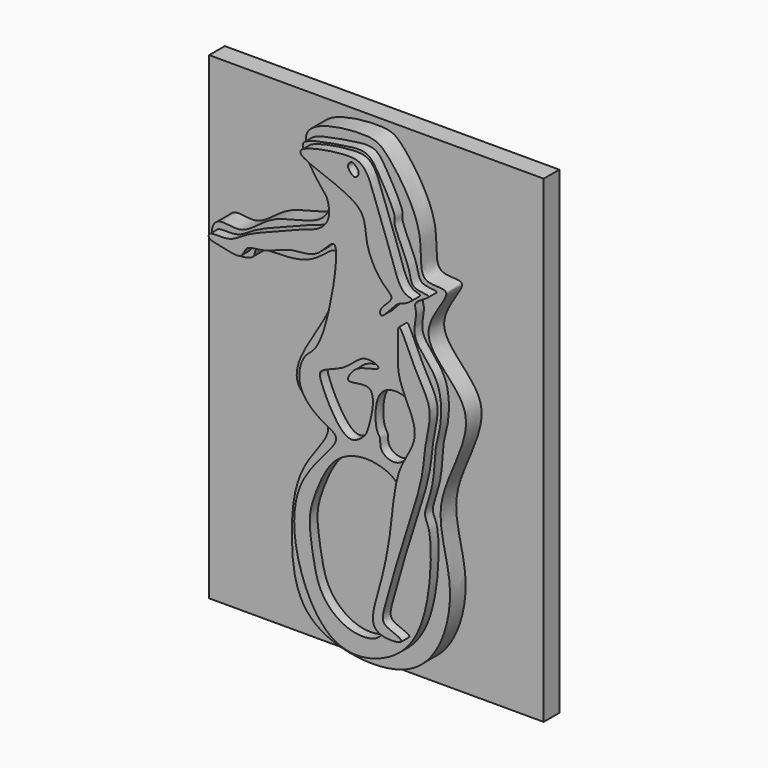
from build123d import *

# Parameters (mm, degrees)
F0_W     = 43.457640335
F0_H     = 62.1308442205
F1_DEPTH = 2.54
F3_DEPTH = 2.54
F5_DEPTH = 1.27
F7_DEPTH = 1.27


with BuildPart() as f1:
    # F0 (on Front) → F1 (new body)
    with BuildSketch(Plane.XZ):
        with Locations((-0.8170800284, 14.6381715313)):
            Rectangle(F0_W, F0_H)
    extrude(amount=-F1_DEPTH)

    # F2 (on face) → F3 (join)
    with BuildSketch(Plane.XZ):
        with BuildLine():
            add(Edge.make_bspline(
                [(0, 44.8016449809), (-2.0234491161, 44.9530078931), (-8.435147304, 44.2185218635), (-7.8807655018, 39.962765512), (-4.2649202858, 36.9444405799), (-5.3624723918, 32.4578236316), (-12.5365644835, 32.186671414), (-16.0079976728, 27.8613503581), (-19.696611489, 29.5765748346), (-20.9440920945, 25.6851641245), (-14.127248545, 25.4066612266), (-15.0712183051, 28.1888386641), (-7.4614569559, 26.6842009068), (-3.2438366293, 32.5457270387), (-3.9290610175, 24.083803927), (-7.2956947474, 19.5613075717), (-10.7571260537, 12.762866108), (-2.751395367, 10.4749042524), (-9.3209790943, 4.4718546339), (-9.9996930084, -3.8204161669), (-9.354181094, -10.7124391217), (-5.1667355477, -15.2539676182), (8.1328352337, -16.3185915256), (12.2422820391, -2.9997955357), (7.4164966592, 5.8811042994), (16.4125980164, 17.9394080175), (4.772515125, 23.9317503054), (12.3737787811, 31.2463774086), (6.2428860121, 29.9008066672), (7.9344650366, 36.4282144115), (2.6646372177, 43.8195999359), (1.2501706057, 44.7081267095), (0, 44.8016449809)],
                knots=[0, 0, 0, 0, 0.0383759243, 0.0623298158, 0.0919301384, 0.1172545377, 0.153120632, 0.1845863062, 0.2088195886, 0.2291013471, 0.2602373093, 0.2760502939, 0.3118697092, 0.3411659157, 0.3731232614, 0.4098700779, 0.4436209076, 0.4747730427, 0.5098693481, 0.5510628112, 0.5869373693, 0.620066446, 0.6666308944, 0.7137181878, 0.7572919571, 0.8050963348, 0.8467326401, 0.8804936293, 0.903198064, 0.9349620834, 0.9762897658, 1, 1, 1, 1], degree=3))
        make_face()
    extrude(amount=F3_DEPTH)

    # F4 (on face) → F5 (join)
    with BuildSketch(Plane.XZ.offset(2.54)):
        with BuildLine():
            add(Edge.make_bspline(
                [(-3.0024009757, 9.7199194133), (-3.0170955966, 8.5787493555), (-9.6614622337, 3.4705459383), (-7.9737765132, -8.4057598686), (-2.6553886225, -15.3781533259), (5.8279038938, -12.9575285379), (9.2837823193, -6.0963381898), (9.5120668979, 3.3190707199), (8.1330208214, 4.7737262245), (9.8341730268, 8.3834425816), (9.7562258646, 13.0157583339), (10.5848466443, 14.8858401458), (11.01261471, 21.0446032113), (6.3968094168, 24.2378050253), (7.7106940585, 27.5660860698), (6.8032649527, 28.7403184579), (10.2429241226, 30.1859740233), (6.6486938317, 29.9269183277), (6.7703351805, 32.3067484561), (4.2660644658, 36.7281631703), (4.8349967456, 37.5569622914), (3.486880688, 40.1886238755), (2.4091259111, 41.9972952325), (1.126472292, 44.0947422381), (-2.3362161064, 43.5419054265), (-7.4068895642, 42.6979590327), (-7.3953137697, 41.2856711626), (-4.8651108859, 37.6029254885), (-4.1224781101, 37.0659706714), (-3.6229074584, 34.4837884557), (-5.2380391631, 32.8725253834), (-7.1356136187, 32.3904205805), (-10.3517715798, 31.031464356), (-14.459193652, 29.5605192486), (-16.2016015305, 28.1946028092), (-17.6635544345, 27.8880997683), (-19.5632346815, 28.0843684096), (-19.6200914979, 27.0963813147), (-17.9023009458, 26.9318071319), (-15.0967912551, 26.0840329148), (-14.8579688231, 28.1332846649), (-12.3181051652, 27.9058593538), (-8.8480549939, 29.8449961324), (-5.4638176864, 29.3130170298), (-2.0500550467, 34.5357960631), (-4.056654761, 21.9802440452), (-5.8155797044, 18.784276183), (-7.4592347174, 17.8000767835), (-8.3637722939, 13.8820230634), (-4.9904533778, 11.0006159423), (-2.9945986043, 10.3258440317), (-3.0024009757, 9.7199194133)],
                knots=[0, 0, 0, 0, 0.0318589059, 0.0709012117, 0.1025280922, 0.1329467856, 0.1648970997, 0.1989650948, 0.2135506187, 0.235402343, 0.2598737674, 0.2766195288, 0.3036433485, 0.3292711791, 0.3487285862, 0.3605659428, 0.3770110132, 0.392160199, 0.4090504193, 0.4342475777, 0.4448352128, 0.4635815735, 0.481121029, 0.4973379045, 0.5186792447, 0.5437535406, 0.5550179246, 0.5788392186, 0.5906765576, 0.6078692675, 0.6242755818, 0.6400393279, 0.6616214849, 0.6857918046, 0.7024160409, 0.7165802637, 0.7313520206, 0.7393171443, 0.7539026757, 0.7722727656, 0.7853510559, 0.8020968181, 0.8248173926, 0.846081297, 0.8651702095, 0.9002001181, 0.9236210632, 0.938218438, 0.9593118283, 0.983083945, 1, 1, 1, 1], degree=3))
        make_face()
        with BuildLine():
            add(Edge.make_bspline(
                [(5.313036032, 6.5144421533), (4.8322118861, 7.6796221138), (2.6456267897, 8.6681647151), (0.0237131583, 8.8226559461), (-2.5378183219, 7.9121562694), (-4.236031538, 5.9865931117), (-5.5485375997, 3.1787687997), (-6.5922797958, 0.0116371121), (-6.3196688316, -2.6245480834), (-5.8089866307, -5.9685510504), (-4.8988548064, -9.1239789062), (-1.628813088, -11.8961886915), (2.1334038374, -11.8344512877), (3.383282787, -10.2612576214), (2.4220477414, -7.9371684728), (4.3100851344, -1.8594055079), (6.0742211748, 4.6698640841), (5.313036032, 6.5144421533)],
                knots=[0, 0, 0, 0, 0.066412438, 0.1255204137, 0.1837899349, 0.2411341139, 0.3055323808, 0.3713862653, 0.4304104143, 0.4968767344, 0.5625179243, 0.6360450794, 0.7035863685, 0.7487986791, 0.8012491404, 0.894863514, 1, 1, 1, 1], degree=3))
        make_face(mode=Mode.SUBTRACT)
        with BuildLine():
            add(Edge.make_bspline(
                [(5.0331531093, 9.593276307), (6.3571520636, 10.0465910141), (8.4788757207, 14.1512393965), (6.8367254576, 17.8363149822), (1.8964908029, 17.8868884801), (2.0248889165, 12.3204729718), (2.8447034996, 11.7330798643), (2.5190497091, 10.1443201094), (4.1611369512, 9.2947128164), (5.0331531093, 9.593276307)],
                knots=[0, 0, 0, 0, 0.1953224177, 0.3544644096, 0.5129064732, 0.6936047521, 0.7750779738, 0.8713561641, 1, 1, 1, 1], degree=3))
        make_face(mode=Mode.SUBTRACT)
        with BuildLine():
            add(Edge.make_bspline(
                [(-1.3818661682, 10.3701725362), (-2.7988215571, 10.8410809041), (-5.1284925477, 15.5817420689), (-5.23199633, 17.1472721349), (-1.5255574373, 17.9333283065), (0.3777726656, 20.7322812464), (3.4640557016, 19.5001994336), (0.3585047827, 19.0477739793), (-0.8621277135, 18.3405742427), (-2.1372384294, 16.1940205529), (2.8152634626, 18.2669927275), (1.1424741562, 11.9962100888), (0.7678378926, 11.2712239098), (-0.5611438229, 10.0974151699), (-1.3818661682, 10.3701725362)],
                knots=[0, 0, 0, 0, 0.1339780684, 0.1939523806, 0.290499319, 0.3877904658, 0.4564552665, 0.530684804, 0.603050732, 0.6619495562, 0.7498461927, 0.863617808, 0.9223978431, 1, 1, 1, 1], degree=3))
        make_face(mode=Mode.SUBTRACT)
    extrude(amount=F5_DEPTH)

    # F6 (on face) → F7 (join)
    with BuildSketch(Plane.XZ.offset(3.81)):
        with BuildLine():
            add(Edge.make_bspline(
                [(-6.6441637464, 41.842404753), (-6.5599076669, 40.9180808027), (2.2589803596, 39.0141844643), (1.4798760154, 34.5268942936), (3.6291912869, 30.3223409096), (5.9732796252, 28.9849975332), (3.5823175901, 27.5742072008), (3.7971922831, 25.8854419532), (5.8595482751, 28.7999271993), (6.6736934761, 28.7119086301), (8.4660224103, 29.8561558237), (6.3787645155, 29.7719330631), (5.1223539679, 34.2173062243), (3.7100950584, 37.6845627428), (2.851178264, 40.5384962059), (1.635652076, 43.2108479913), (-0.7233792444, 43.7117054925), (-6.7154153994, 42.62406478), (-6.6441637464, 41.842404753)],
                knots=[0, 0, 0, 0, 0.1052385182, 0.1798503689, 0.2596786201, 0.3098483025, 0.3639938509, 0.3954202977, 0.4561126925, 0.4949935374, 0.5377449149, 0.574762762, 0.6520543153, 0.7267205396, 0.7909187177, 0.8501568301, 0.9110044234, 1, 1, 1, 1], degree=3))
        make_face()
        with BuildLine():
            add(Edge.make_bspline(
                [(0, 42.8673997521), (0.2074967723, 42.9178015614), (0.6417806438, 42.5838857472), (1.1450086807, 41.8653383641), (0.4639076309, 41.1087292812), (-0.0184046183, 41.5193057258), (-0.6718776678, 42.2182254116), (-0.2190477958, 42.8141921524), (0, 42.8673997521)],
                knots=[0, 0, 0, 0, 0.1613470819, 0.3369176079, 0.5048595696, 0.6470259659, 0.8296709763, 1, 1, 1, 1], degree=3))
        make_face(mode=Mode.SUBTRACT)
        with BuildLine():
            add(Edge.make_bspline(
                [(6.2035084702, 26.0010380298), (6.5193048728, 26.0068200195), (8.3049717656, 21.3010711904), (10.7533603555, 18.0861272701), (9.4636674447, 13.6378059436), (9.3593793159, 9.9237219546), (7.6382089833, 4.4619053273), (5.8564928037, -0.9915645163), (4.7738540816, -5.194322655), (3.9923691419, -7.5584538261), (4.1386616967, -8.8111904905), (6.0078602499, -9.2953165341), (6.9141151254, -10.0170606479), (4.4379479353, -10.3255595107), (2.1717202647, -9.2914017397), (3.8347082196, -4.190026507), (5.2086216528, 1.9477392443), (5.6226430804, 9.5452567433), (8.1954851762, 12.8741520149), (8.4138784106, 15.8289974523), (5.8142474358, 20.0587091533), (6.1111946155, 23.4360819398), (5.9898896487, 25.9971268331), (6.2035084702, 26.0010380298)],
                knots=[0, 0, 0, 0, 0.0544130686, 0.1085574684, 0.1600399795, 0.2094784108, 0.2699908681, 0.3319825797, 0.3852642166, 0.4244639692, 0.4499089388, 0.4848901229, 0.5046899848, 0.5396539141, 0.5755551903, 0.6298091077, 0.6965521881, 0.7661160181, 0.8164946153, 0.8581277933, 0.9131868795, 0.9631925649, 1, 1, 1, 1], degree=3))
        make_face()
    extrude(amount=F7_DEPTH)


solid = f1.part
